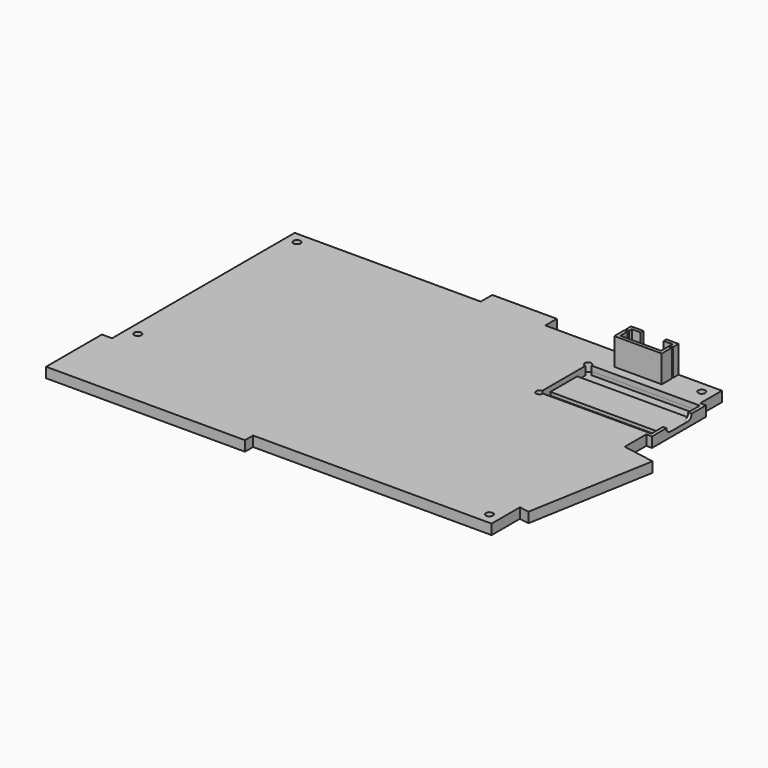
from build123d import *

# Parameters (mm, degrees)
PAD017_DEPTH    = 3
SKETCH041_R     = 1.05
POCKET007_DEPTH = 3.001
PAD018_DEPTH    = 1.7
SKETCH043_W     = 33
SKETCH043_H     = 17.9
POCKET008_DEPTH = 1.5
POCKET009_DEPTH = 2.5
SKETCH045_W     = 6.4
SKETCH045_H     = 7
PAD019_DEPTH    = 1.7
PAD020_DEPTH    = 8
POCKET010_DEPTH = 6.9
SKETCH048_R     = 3.15
POCKET011_DEPTH = 1


with BuildPart() as part:
    # Sketch040 (on Face97 of Binder002) → Pad017 (new body)
    with BuildSketch(Plane.XY.offset(-8)):
        Polygon((-64.45, 24.325), (-64.45, -43.04), (-67.45, -43.04), (-67.45, -63.64), (-8.75, -63.64), (-8.75, -60.64), (61.6428917544, -60.64), (61.6428917544, -50.1977285884), (64.5583406887, -50.7118008964), (71.1743362578, -13.1906255066), (61.6428917544, -11.5099746756), (61.6428917544, 24.325), (9.525, 24.325), (9.525, 28.575), (-9.525, 28.575), (-9.525, 24.325), align=None)
    extrude(amount=-PAD017_DEPTH)

    # Sketch041 (on Face17 of Pad017) → Pocket007 (cut, through all)
    with BuildSketch(Plane.XY.offset(-8)):
        with Locations((-61.15, 21.025)):
            Circle(SKETCH041_R)
        with Locations((-61.15, -37.64)):
            Circle(SKETCH041_R)
        with Locations((58.3428917544, 21.025)):
            Circle(SKETCH041_R)
        with Locations((58.3428917544, -57.34)):
            Circle(SKETCH041_R)
    extrude(amount=-POCKET007_DEPTH, mode=Mode.SUBTRACT)

    # Sketch042 (on Vertex202 of Binder002) → Pad018 (join)
    with BuildSketch(Plane(origin=(61.6428917544, 16.525, -11), x_dir=(0, 1, 0), z_dir=(1, 0, 0))):
        with BuildLine():
            Line((-0.2, 0), (-0.2, 3))
            Line((-0.2, 3), (-5.5, 3))
            Line((-5.5, 2.9), (-5.5, 3))
            ThreePointArc((-6.9, 1.5), (-5.9100505063, 1.9100505063), (-5.5, 2.9))
            Line((-13.4, 1.5), (-6.9, 1.5))
            ThreePointArc((-14.8, 2.9), (-14.3899494937, 1.9100505063), (-13.4, 1.5))
            Line((-14.8, 3), (-14.8, 2.9))
            Line((-20.1, 3), (-14.8, 3))
            Line((-20.1, 3), (-20.1, 0))
            Line((-20.1, 0), (-0.2, 0))
        make_face()
    extrude(amount=PAD018_DEPTH)

    # Sketch043 (on Vertex40 of Pad018) → Pocket008 (cut)
    with BuildSketch(Plane(origin=(63.3428917544, 16.325, -8), x_dir=(1, 0, 0), z_dir=(0, 0, 1))):
        with Locations((-17.5, -9.95)):
            Rectangle(SKETCH043_W, SKETCH043_H)
    extrude(amount=-POCKET008_DEPTH, mode=Mode.SUBTRACT)

    # Sketch044 (on Face4 of Pocket008) → Pocket009 (cut)
    with BuildSketch(Plane.XY.offset(-8)):
        with BuildLine():
            ThreePointArc((30.3428917544, 15.3249996463), (28.6357850983, 16.0321069062), (29.3428917544, 14.325))
            Line((29.3428917544, 14.325), (29.3428917544, 11.3249996463))
            Line((29.3428917544, 11.3249996463), (62.3428917544, 11.3249996463))
            Line((62.3428917544, 11.3249996463), (62.3428917544, 15.3249996463))
            Line((30.3428917544, 15.3249996463), (62.3428917544, 15.3249996463))
        make_face()
        with BuildLine():
            ThreePointArc((29.3428917544, -1.575), (28.6357848482, -3.2821066561), (30.3428917544, -2.5750003537))
            Line((62.3428917544, -2.5750003537), (30.3428917544, -2.5750003537))
            Line((62.3428917544, -2.5750003537), (62.3428917544, 1.4249996463))
            Line((62.3428917544, 1.4249996463), (29.3428917544, 1.4249996463))
            Line((29.3428917544, 1.4249996463), (29.3428917544, -1.575))
        make_face()
    extrude(amount=-POCKET009_DEPTH, mode=Mode.SUBTRACT)

    # Sketch045 (on Vertex102 of Binder002) → Pad019 (join)
    with BuildSketch(Plane(origin=(38.4428917544, 24.325, -11), x_dir=(1, 0, 0), z_dir=(0, -1, 0))):
        with Locations((3.4, 3.5)):
            Rectangle(SKETCH045_W, SKETCH045_H)
    extrude(amount=-PAD019_DEPTH)

    # Sketch046 (on Vertex13 of Pad019) → Pad020 (join)
    with BuildSketch(Plane(origin=(45.0428917544, 24.325, -8), x_dir=(1, 0, 0), z_dir=(0, 0, 1))):
        Polygon((-9.2, -1), (-9.2, -2), (-10.2, -2), (-10.2, 0), (3.8, 0), (3.8, -2), (2.8, -2), (2.8, -1), align=None)
        Polygon((-10.2, -2.5), (-9.2, -2.5), (-9.2, -5.2), (2.8, -5.2), (2.8, -2.5), (3.8, -2.5), (3.8, -6.2), (-10.2, -6.2), align=None)
    extrude(amount=PAD020_DEPTH)

    # Sketch047 (on Face51 of Pad020) → Pocket010 (cut)
    with BuildSketch(Plane(origin=(0, 26.025, 0), x_dir=(-1, 0, 0), z_dir=(0, 1, 0))):
        with BuildLine():
            ThreePointArc((-45.2428917544, -4), (-41.8428917544, -7.4), (-38.4428917544, -4))
            Line((-38.4428917544, 0), (-38.4428917544, -4))
            Line((-45.2428917544, 0), (-38.4428917544, 0))
            Line((-45.2428917544, -4), (-45.2428917544, 0))
        make_face()
    extrude(amount=-POCKET010_DEPTH, mode=Mode.SUBTRACT)

    # Sketch048 (on Face5 of Pocket010) → Pocket011 (cut)
    with BuildSketch(Plane(origin=(0, 0, -11), x_dir=(1, 0, 0), z_dir=(0, 0, -1))):
        with Locations((-59.45, 55.64)):
            Circle(SKETCH048_R)
        with Locations((52.3428917545, 55.64)):
            Circle(SKETCH048_R)
        with Locations((-55.15, -19.325)):
            Circle(SKETCH048_R)
        with Locations((52.3428917545, -19.325)):
            Circle(SKETCH048_R)
    extrude(amount=-POCKET011_DEPTH, mode=Mode.SUBTRACT)


solid = part.part
